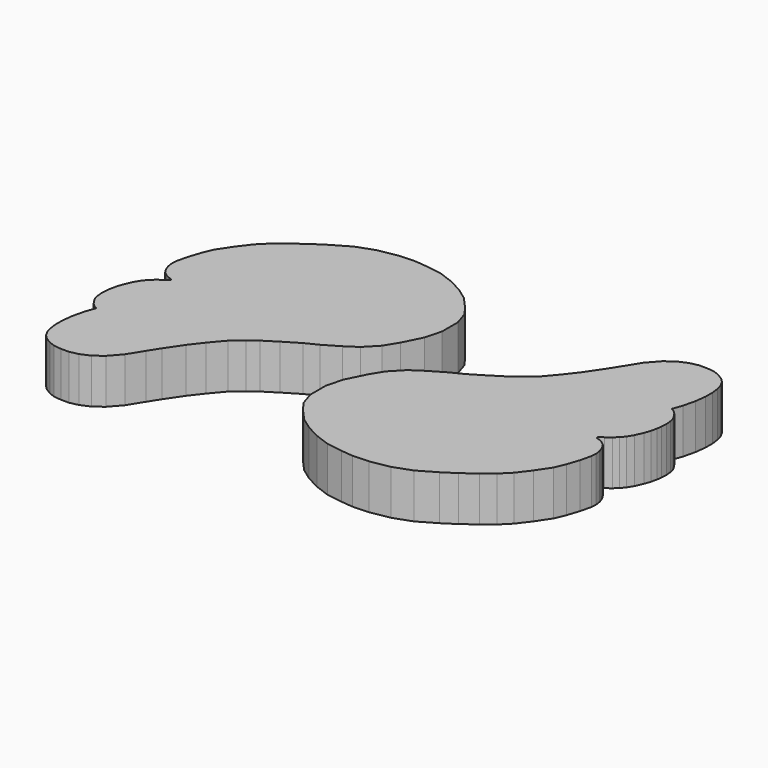
from build123d import *

# Parameters (mm, degrees)
PAD044_DEPTH            = 5
BODY044_PLACEMENT_ANGLE = 180
PAD043_DEPTH            = 5


with BuildPart() as body044:
    # Sketch046 → Pad044 (new body)
    with BuildSketch(Plane.XY):
        Polygon((-0.715895, 10.459235), (0.958153, 11.443971), (2.336782, 12.133285), (4.060069, 13.167257), (5.537171, 14.102756), (6.536532, 14.831632), (7.712062, 15.853839), (8.973101, 17.336113), (10.079276, 18.774139), (11.296068, 20.566143), (12.092514, 21.827183), (13.116936, 23.475929), (14.223111, 24.736969), (15.240791, 25.489166), (16.280596, 25.931637), (17.221134, 26.137039), (18.110924, 26.137039), (18.926565, 26.048061), (19.579077, 25.810783), (20.261248, 25.395548), (20.720972, 24.935823), (21.062059, 24.312971), (21.241928, 23.641508), (21.345737, 22.840698), (21.345737, 21.87676), (21.197439, 20.690374), (20.871256, 19.321636), (20.485682, 18.239059), (20.894186, 17.997505), (21.202349, 17.699284), (21.480688, 17.301653), (21.749088, 16.804617), (21.858437, 16.327463), (21.90814, 15.76084), (21.878248, 15.092189), (21.808664, 14.545448), (21.659552, 13.879419), (21.430916, 13.203449), (21.042017, 12.334372), (20.664268, 11.708105), (20.256699, 11.221009), (19.799425, 10.813439), (19.252686, 10.395929), (18.77553, 10.048003), (18.764149, 9.924158), (18.923201, 9.834691), (19.221422, 9.765106), (19.569347, 9.566292), (19.998131, 9.245623), (20.23671, 8.897697), (20.435524, 8.450364), (20.544872, 8.11238), (20.634338, 7.525877), (20.584635, 6.919492), (20.302982, 5.715654), (19.850153, 4.339052), (19.361095, 3.179808), (18.328644, 1.640186), (17.289362, 0.272043), (16.238798, -0.778522), (15.043327, -1.720408), (13.576158, -2.8072), (12.181441, -3.71286), (10.236815, -4.842392), (8.226252, -5.56692), (6.107007, -5.947297), (4.295688, -6.01975), (2.991537, -5.892957), (1.173591, -5.613963), (-0.443623, -5.019885), (-1.961825, -4.227778), (-3.248996, -3.303655), (-4.536168, -1.884467), (-5.262265, -0.86133), (-5.75733, 0.656871), (-5.75733, 2.868166), (-5.262265, 4.716413), (-4.237876, 6.772507), (-3.346758, 8.224701), (-2.043983, 9.573533), align=None)
    extrude(amount=PAD044_DEPTH)


with BuildPart() as body044_1:
    # Body044 placement: moved
    add(body044.part.moved(Location((-10, 20, -5))).rotate(Axis((-10, 20, -5), (0, 0, 1)), BODY044_PLACEMENT_ANGLE))


with BuildPart() as fusion008:
    # Sketch045 → Pad043 (new body)
    with BuildSketch(Plane.XY):
        Polygon((-0.715895, 10.459235), (0.958153, 11.443971), (2.336782, 12.133285), (4.060069, 13.167257), (5.537171, 14.102756), (6.536532, 14.831632), (7.712062, 15.853839), (8.973101, 17.336113), (10.079276, 18.774139), (11.296068, 20.566143), (12.092514, 21.827183), (13.116936, 23.475929), (14.223111, 24.736969), (15.240791, 25.489166), (16.280596, 25.931637), (17.221134, 26.137039), (18.110924, 26.137039), (18.926565, 26.048061), (19.579077, 25.810783), (20.261248, 25.395548), (20.720972, 24.935823), (21.062059, 24.312971), (21.241928, 23.641508), (21.345737, 22.840698), (21.345737, 21.87676), (21.197439, 20.690374), (20.871256, 19.321636), (20.485682, 18.239059), (20.894186, 17.997505), (21.202349, 17.699284), (21.480688, 17.301653), (21.749088, 16.804617), (21.858437, 16.327463), (21.90814, 15.76084), (21.878248, 15.092189), (21.808664, 14.545448), (21.659552, 13.879419), (21.430916, 13.203449), (21.042017, 12.334372), (20.664268, 11.708105), (20.256699, 11.221009), (19.799425, 10.813439), (19.252686, 10.395929), (18.77553, 10.048003), (18.764149, 9.924158), (18.923201, 9.834691), (19.221422, 9.765106), (19.569347, 9.566292), (19.998131, 9.245623), (20.23671, 8.897697), (20.435524, 8.450364), (20.544872, 8.11238), (20.634338, 7.525877), (20.584635, 6.919492), (20.302982, 5.715654), (19.850153, 4.339052), (19.361095, 3.179808), (18.328644, 1.640186), (17.289362, 0.272043), (16.238798, -0.778522), (15.043327, -1.720408), (13.576158, -2.8072), (12.181441, -3.71286), (10.236815, -4.842392), (8.226252, -5.56692), (6.107007, -5.947297), (4.295688, -6.01975), (2.991537, -5.892957), (1.173591, -5.613963), (-0.443623, -5.019885), (-1.961825, -4.227778), (-3.248996, -3.303655), (-4.536168, -1.884467), (-5.262265, -0.86133), (-5.75733, 0.656871), (-5.75733, 2.868166), (-5.262265, 4.716413), (-4.237876, 6.772507), (-3.346758, 8.224701), (-2.043983, 9.573533), align=None)
    extrude(amount=PAD043_DEPTH)


with BuildPart() as fusion008_1:
    # Body043 placement: moved
    add(fusion008.part.moved(Location((0, 0, -5))))

    # Fusion008: union Body044
    add(body044_1.part)


with BuildPart() as fusion008_2:
    # Fusion008 placement: moved
    add(fusion008_1.part.moved(Location((-20, -45, 0))))


solid = fusion008_2.part
